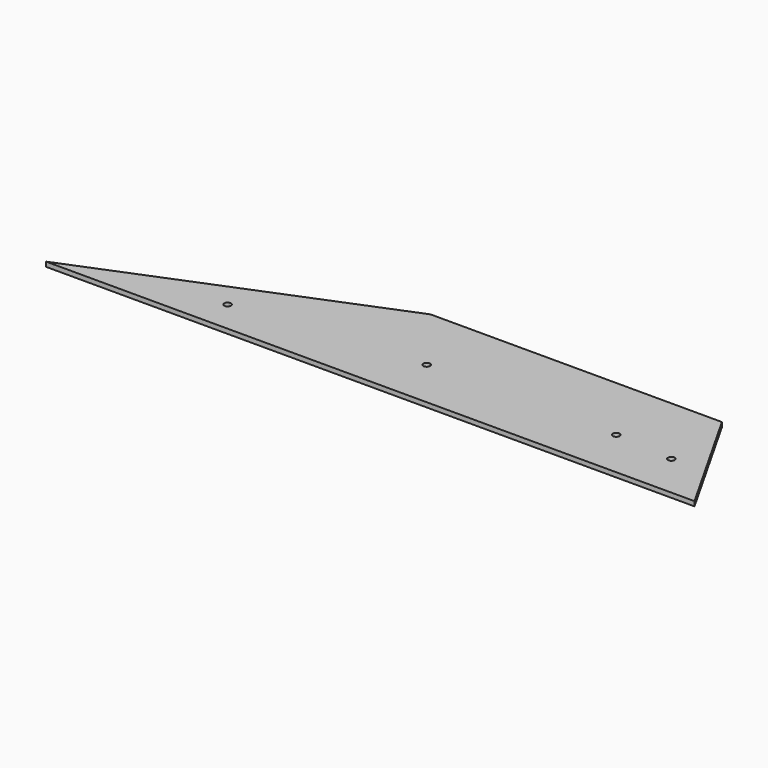
from build123d import *

# Parameters (mm, degrees)
F1_DEPTH = 3.175


with BuildPart() as f1:
    # F0 (on Top) → F1 (new body)
    with BuildSketch(Plane.XY):
        Polygon((-222.5, -40.4475), (222.5, -40.4475), (176.6197321826, 40.4475), (141.6947321826, 40.4475), (11.5447321826, 40.4475), (-23.3802678174, 40.4475), align=None)
        with BuildLine():
            ThreePointArc((-116.282366584, -16.3878218263), (-114.1217077206, -16.6117685547), (-113.1009845959, -18.5292468893))
            ThreePointArc((-113.1009845959, -18.5292468893), (-116.7030614712, -20.4467252239), (-116.282366584, -16.3878218263))
        make_face(mode=Mode.SUBTRACT)
        with BuildLine():
            ThreePointArc((11.5447321826, -4.2411), (13.1791387966, -4.918093386), (13.8561321826, -6.5525))
            ThreePointArc((13.8561321826, -6.5525), (9.9103255685, -8.186906614), (11.5447321826, -4.2411))
        make_face(mode=Mode.SUBTRACT)
        with BuildLine():
            ThreePointArc((141.6947321826, -4.2411), (143.3291387966, -4.918093386), (144.0061321826, -6.5525))
            ThreePointArc((144.0061321826, -6.5525), (140.0603255685, -8.186906614), (141.6947321826, -4.2411))
        make_face(mode=Mode.SUBTRACT)
        with BuildLine():
            ThreePointArc((184.1736370913, -8.7264269389), (184.3980129389, -9.2770651231), (184.4744918977, -9.8667242618))
            ThreePointArc((184.4744918977, -9.8667242618), (179.9281708566, -10.4563834005), (184.1736370913, -8.7264269389))
        make_face(mode=Mode.SUBTRACT)
    extrude(amount=F1_DEPTH)


solid = f1.part
